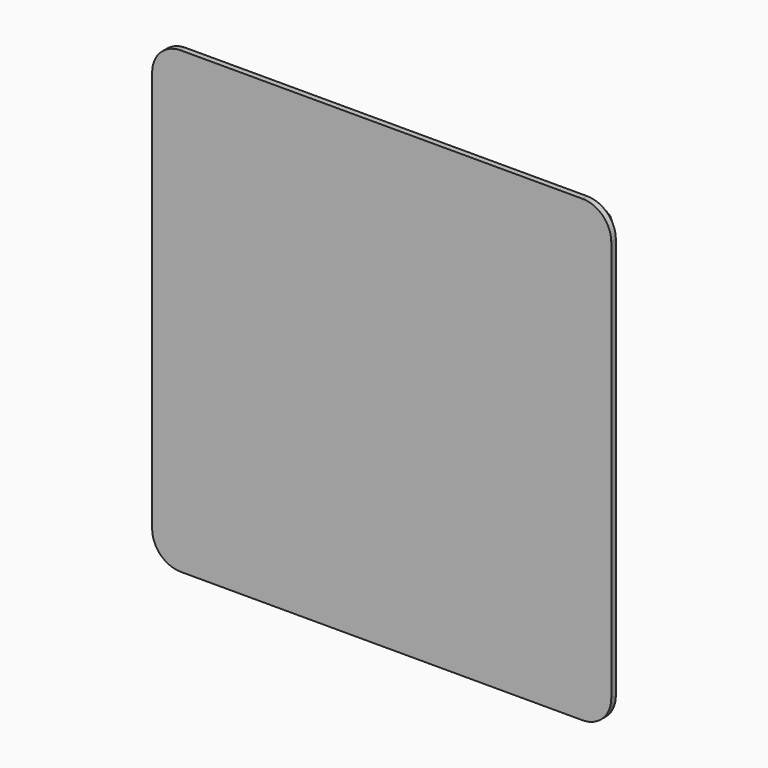
from build123d import *

# Parameters (mm, degrees)
F1_DEPTH = 6.35
F2_SIZE  = 5.08


with BuildPart() as f1:
    # F0 (on Front) → F1 (new body)
    with BuildSketch(Plane.XZ):
        with BuildLine():
            ThreePointArc((50.8, 44.45), (48.940128, 48.940128), (44.45, 50.8))
            Line((44.45, 50.8), (-44.45, 50.8))
            ThreePointArc((-44.45, 50.8), (-48.940128, 48.940128), (-50.8, 44.45))
            Line((-50.8, 44.45), (-50.8, -44.45))
            ThreePointArc((-50.8, -44.45), (-48.940128, -48.940128), (-44.45, -50.8))
            Line((-44.45, -50.8), (44.45, -50.8))
            ThreePointArc((44.45, -50.8), (48.940128, -48.940128), (50.8, -44.45))
            Line((50.8, -44.45), (50.8, 44.45))
        make_face()
    extrude(amount=F1_DEPTH)

    # F2
    f2_edges = [f1.edges().sort_by_distance(p)[0] for p in [
        (0, 0, 50.8),
    ]]
    chamfer(f2_edges, length=F2_SIZE)


solid = f1.part
